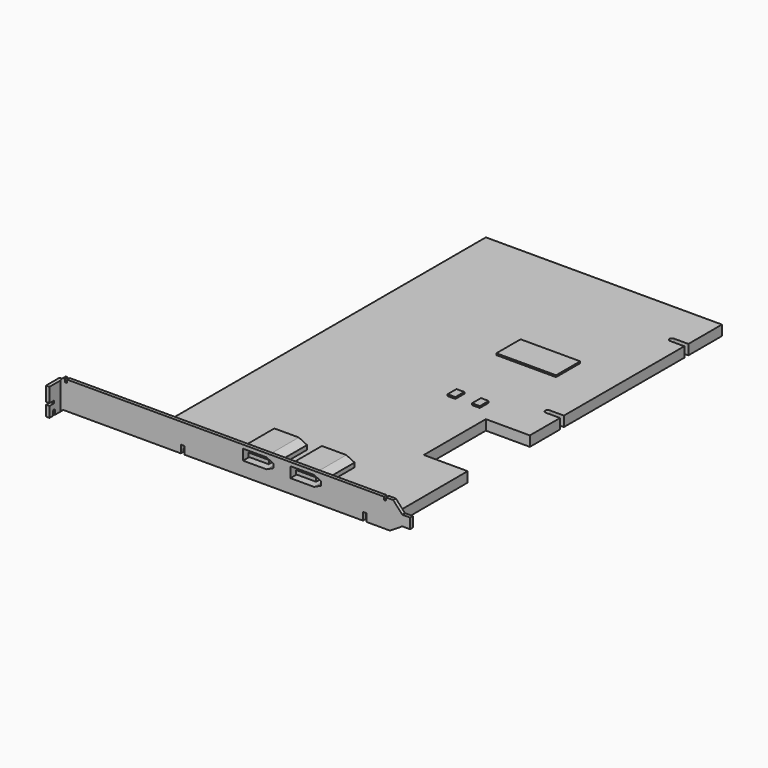
from build123d import *

# Parameters (mm, degrees)
F1_DEPTH  = 3
F2_W      = 8
F2_H      = 3
F3_DEPTH  = 2
F5_DEPTH  = 1
F7_DEPTH  = 25
F9_DEPTH  = 11
F11_DEPTH = 11
F12_W     = 7
F12_H     = 0.2
F13_DEPTH = 3.2
F14_W     = 0.2
F14_H     = 1.1327061802
F15_DEPTH = 5.5
F16_W     = 7
F16_H     = 0.2
F17_DEPTH = 3.19
F18_W     = 0.2
F18_H     = 1.1327061802
F19_DEPTH = 7.4
F20_W     = 6
F20_H     = 1.1327061802
F21_DEPTH = 11
F22_W     = 6
F22_H     = 1.1327061802
F23_DEPTH = 11
F24_W     = 1.0315924883
F24_H     = 8.1316158699
F25_DEPTH = 4
F26_W     = 1.6550530118
F26_H     = 0.745086465
F27_DEPTH = 25
F28_W     = 17.6785664628
F28_H     = 8.9571411045
F29_DEPTH = 0.5
F28_W_2   = 2.3
F28_H_2   = 3.3


with BuildPart() as f1:
    # F0 (on Top) → F1 (new body)
    with BuildSketch(Plane.XY):
        with BuildLine():
            Line((36.6037742128, 60), (-33.3962257872, 60))
            Line((-33.3962257872, 60), (-33.3962257872, -60))
            Line((-33.3962257872, -60), (36.6037742128, -60))
            Line((36.6037742128, -60), (36.5525332391, -34.1813638806))
            Line((36.5525332391, -34.1813638806), (23.5525332391, -34.1813638806))
            Line((23.5525332391, -34.1813638806), (23.5525332391, -11.1813638806))
            Line((23.5525332391, -11.1813638806), (36.5525332391, -11.1813638806))
            Line((36.5525332391, -11.1813638806), (36.6037742128, -11.1813638806))
            Line((36.6037742128, -11.1813638806), (36.6037742128, 0))
            Line((36.6037742128, 0), (32.3537742128, 0))
            ThreePointArc((32.3537742128, 0), (31.8234441269, 0.2196699141), (31.6037742128, 0.75))
            ThreePointArc((31.6037742128, 0.75), (31.8234441269, 1.2803300859), (32.3537742128, 1.5))
            Line((32.3537742128, 1.5), (36.5525332391, 1.5))
            Line((36.5525332391, 1.5), (36.6037742128, 46.0609085858))
            Line((36.6037742128, 46.0609085858), (32.3537742128, 46.0609085858))
            ThreePointArc((32.3537742128, 46.0609085858), (31.8234441269, 46.2805784999), (31.6037742128, 46.8109085858))
            ThreePointArc((31.6037742128, 46.8109085858), (31.8234441269, 47.3412386717), (32.3537742128, 47.5609085858))
            Line((32.3537742128, 47.5609085858), (36.6037742128, 47.5609085858))
            Line((36.6037742128, 47.5609085858), (36.6037742128, 60))
        make_face()
    extrude(amount=F1_DEPTH)


with BuildPart() as f3:
    # F2 (on face) → F3 (new body)
    with BuildSketch(Plane.XZ.offset(60)):
        with Locations((32.6037742128, 1.5)):
            Rectangle(F2_W, F2_H)
    extrude(amount=F3_DEPTH)


with BuildPart() as f3b:
    # F2 (on face) → F3, piece 2 (new body)
    with BuildSketch(Plane.XZ.offset(60)):
        with Locations((-29.3962257872, 1.5)):
            Rectangle(F2_W, F2_H)
    extrude(amount=F3_DEPTH)


with BuildPart() as f5:
    # F4 (on face) → F5 (new body)
    with BuildSketch(Plane.XZ.offset(62)):
        Polygon((-25.3962257872, -0.8), (-25.3962257872, 0), (-25.3962257872, 1.5), (-24.3962257872, 1.5), (-24.3962257872, -0.8), (28.6037009209, -0.8), (28.6037009209, 0), (28.6037009209, 0.1021988282), (28.6037009209, 1.5), (29.6037009209, 1.5), (29.6037009209, 0), (29.6037009209, -0.8), (36.6037009209, -0.8), (40.2368813459, 1.5), (42.5368813459, 1.5), (42.5368813459, 4.5362776145), (40.2368813459, 4.5362776145), (37.5422888717, 7.4924865717), (35.4422888717, 7.4924865717), (35.4422888717, 6.5924865717), (34.7422888717, 6.5924865717), (34.7422888717, 7.4924865717), (-59.12965976, 7.4924865717), (-59.12965976, 6.5924865717), (-59.82965976, 6.5924865717), (-59.82965976, 7.4924865717), (-60.3962257872, 7.4924865717), (-61.1580461264, 6.5924865717), (-62.1896386147, 6.5924865717), (-62.1896386147, -1.5391292982), (-61.1580461264, -1.5391292982), (-60.3962257872, -0.8), align=None)
    extrude(amount=F5_DEPTH)

    # F6 (on face) → F7 (cut)
    with BuildSketch(Plane.XZ.offset(63)):
        Polygon((16.1862980872, 4.2971617077), (16.1862980872, 5.4298678879), (14.0588406771, 6.4291018192), (7.0588406771, 6.4291018192), (7.0588406771, 3.2979277764), (14.0588406771, 3.2979277764), align=None)
        Polygon((2.0989337936, 5.4298678879), (0, 6.4291018192), (-7, 6.4291018192), (-7, 3.2981018192), (0, 3.2981018192), (2.0989337936, 4.2971617077), align=None)
    extrude(amount=-F7_DEPTH, mode=Mode.SUBTRACT)

    # F8 (on face) → F9 (join)
    with BuildSketch(Plane(origin=(0, -62, 0), x_dir=(-1, 0, 0), z_dir=(0, 1, 0))):
        Polygon((7.3, 6.7291018192), (3.3125772607, 6.7291018192), (0.064611199, 6.7291018192), (-2.3986711167, 5.5564134382), (-2.3986711167, 4.2971617077), (0, 3.0981018192), (7.3, 3.0981018192), align=None)
        Polygon((-2.0989337936, 5.4298678879), (0, 6.4291018192), (7, 6.4291018192), (7, 3.2981018192), (0, 3.2981018192), (-2.0989337936, 4.2971617077), align=None, mode=Mode.SUBTRACT)
    extrude(amount=F9_DEPTH)

    # F10 (on face) → F11 (join)
    with BuildSketch(Plane(origin=(0, -62, 0), x_dir=(-1, 0, 0), z_dir=(0, 1, 0))):
        Polygon((-6.7882863318, 6.731566316), (-10.7757090712, 6.731566316), (-14.0236751328, 6.731566316), (-16.4869574485, 5.558877935), (-16.4869574485, 4.2996262045), (-14.0882863318, 3.100566316), (-6.7882863318, 3.100566316), align=None)
        Polygon((-16.1872201254, 5.4323323847), (-14.0882863318, 6.431566316), (-7.0882863318, 6.431566316), (-7.0882863318, 6.4291018192), (-7.0588406771, 6.4291018192), (-7.0588406771, 3.2979277764), (-14.0588406771, 3.2979277764), (-14.0644583614, 3.300566316), (-14.0882863318, 3.300566316), (-15.8647655234, 4.1461428218), (-16.1862980872, 4.2971617077), (-16.1862980872, 4.2991873286), (-16.1872201254, 4.2996262045), align=None, mode=Mode.SUBTRACT)
    extrude(amount=F11_DEPTH)

    # F12 (on face) → F13 (join)
    with BuildSketch(Plane.XY.offset(3.2981018192)):
        with Locations((-3.5, -51.1)):
            Rectangle(F12_W, F12_H)
    extrude(amount=F13_DEPTH)

    # F14 (on face) → F15 (join)
    with BuildSketch(Plane(origin=(2.0989337936, 0, 0), x_dir=(0, -1, 0), z_dir=(-1, 0, 0))):
        with Locations((51.1, 4.8635147978)):
            Rectangle(F14_W, F14_H)
    extrude(amount=F15_DEPTH)

    # F16 (on face) → F17 (join)
    with BuildSketch(Plane.XY.offset(3.2979277764)):
        with Locations((10.5588406771, -51.1)):
            Rectangle(F16_W, F16_H)
    extrude(amount=F17_DEPTH)

    # F18 (on face) → F19 (join)
    with BuildSketch(Plane(origin=(16.1872201254, 0, 0), x_dir=(0, -1, 0), z_dir=(-1, 0, 0))):
        with Locations((51.1, 4.8659792946)):
            Rectangle(F18_W, F18_H)
    extrude(amount=F19_DEPTH)

    # F20 (on face) → F21 (join)
    with BuildSketch(Plane.XZ.offset(51.2)):
        with Locations((-3, 4.8635147978)):
            Rectangle(F20_W, F20_H)
    extrude(amount=F21_DEPTH)

    # F22 (on face) → F23 (join)
    with BuildSketch(Plane.XZ.offset(51.2)):
        with Locations((11.0588406771, 4.8659792946)):
            Rectangle(F22_W, F22_H)
    extrude(amount=F23_DEPTH)

    # F24 (on face) → F25 (join)
    with BuildSketch(Plane.XZ.offset(63)):
        with Locations((-61.6738423705, 2.5266786368)):
            Rectangle(F24_W, F24_H)
    extrude(amount=F25_DEPTH)

    # F26 (on face) → F27 (cut)
    with BuildSketch(Plane.YZ.offset(-61.1580461264)):
        with BuildLine():
            Line((-65.6472089325, -0.3), (-65.6472089325, -1.5391292982))
            Line((-65.6472089325, -1.5391292982), (-65.0426850438, -1.5391292982))
            Line((-65.0426850438, -1.5391292982), (-65.0426850438, -0.3))
            ThreePointArc((-65.0426850438, -0.3), (-65.1305530095, -0.0878679656), (-65.3426850438, 0))
            Line((-65.3426850438, 0), (-65.3472089325, 0))
            ThreePointArc((-65.3472089325, 0), (-65.5593409669, -0.0878679656), (-65.6472089325, -0.3))
        make_face()
        with Locations((-66.1724734941, 1.9554740284)):
            Rectangle(F26_W, F26_H)
    extrude(amount=-F27_DEPTH, mode=Mode.SUBTRACT)


with BuildPart() as f29:
    # F28 (on face) → F29 (new body)
    with BuildSketch(Plane.XY.offset(3)):
        with Locations((14.2523010727, 19.8839701561)):
            Rectangle(F28_W, F28_H)
    extrude(amount=F29_DEPTH)


with BuildPart() as f29b:
    # F28 (on face) → F29, piece 2 (new body)
    with BuildSketch(Plane.XY.offset(3)):
        with Locations((10.5701600818, -6.0445953979)):
            Rectangle(F28_W_2, F28_H_2)
    extrude(amount=F29_DEPTH)


with BuildPart() as f29c:
    # F28 (on face) → F29, piece 3 (new body)
    with BuildSketch(Plane.XY.offset(3)):
        with Locations((17.8193851352, -6.0445953979)):
            Rectangle(F28_W_2, F28_H_2)
    extrude(amount=F29_DEPTH)


solid = Compound([f1.part, f3.part, f3b.part, f5.part, f29.part, f29b.part, f29c.part])
